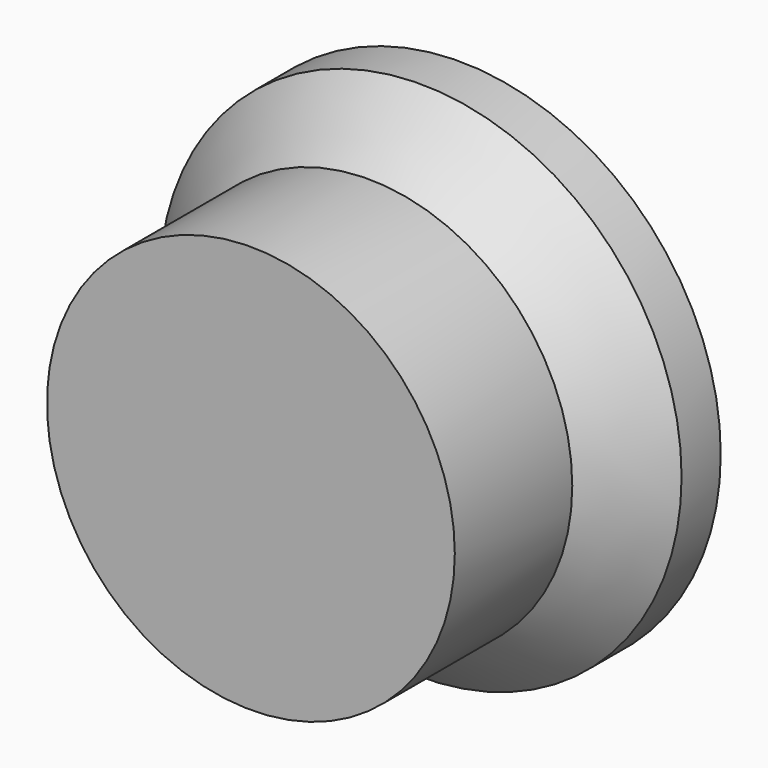
from build123d import *


with BuildPart() as part:
    # Sketch → Revolution (revolve)
    with BuildSketch(Plane.XY):
        Polygon((0, 25), (3.9, 25), (3.9, 19), (6.9, 19), (6.9, 16), (16, 16), (16, 13), (12.5, 9), (12.5, 0), (0, 0), align=None)
    revolve(axis=Axis((0, 0, 0), (0, 1, 0)))


solid = part.part
